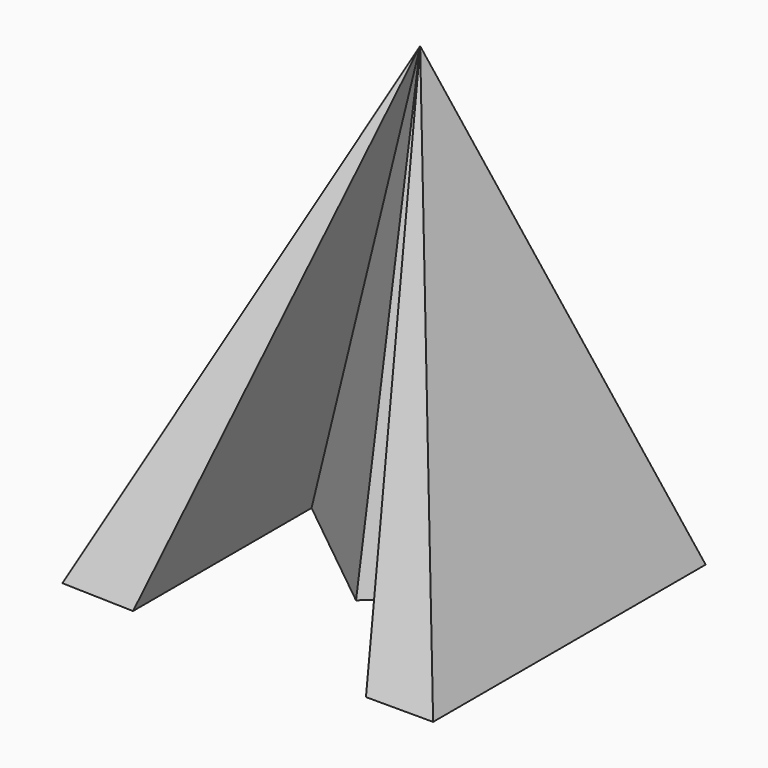
from build123d import *


with BuildPart() as f3:
    # F0 (on Top) → F3 section 0
    with BuildSketch(Plane.XY, mode=Mode.PRIVATE) as f3_s0:
        Polygon((-29.592446, 43.746622), (-54.992446, 43.746622), (-54.992446, -50.599994), (-34.776335, -51.247451), (-34.776335, 10.98922), (0, -16.973219), (30.18372, 10.98922), (30.18372, -51.247451), (48.917435, -51.247451), (48.917435, 43.746622), (23.517435, 43.746622), (2.727037, 11.819059), align=None)
    loft([f3_s0.sketch, Vertex(0, 5.375685, 127)])


solid = f3.part
